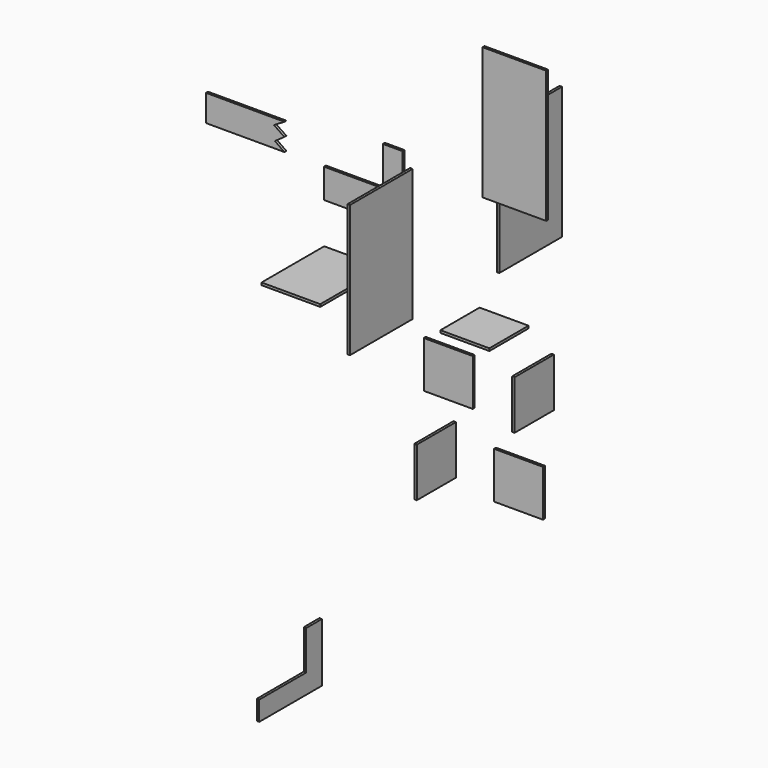
from build123d import *

# Parameters (mm, degrees)
F0_W      = 63.5
F0_H      = 63.5
F1_DEPTH  = 3.175
F2_W      = 63.5
F2_H      = 60.325
F3_DEPTH  = 3.175
F4_DEPTH  = 3.175
F5_W      = 63.5
F5_H      = 63.5
F6_DEPTH  = 3.175
F0_W_2    = 76.2
F0_H_2    = 101.6
F7_DEPTH  = 3.175
F5_W_2    = 101.6
F5_H_2    = 171.45
F8_DEPTH  = 3.175
F9_DEPTH  = 3.175
F2_W_2    = 82.55
F2_H_2    = 171.45
F10_DEPTH = 3.175
F5_W_3    = 76.2
F5_H_3    = 25.4
F5_W_4    = 25.4
F5_H_4    = 50.8
F11_DEPTH = 3.175
F2_W_3    = 25.4
F2_H_3    = 50.8
F2_H_4    = 38.1
F2_W_4    = 76.2
F12_DEPTH = 3.175
F13_DEPTH = 3.175


with BuildPart() as f1:
    # F0 (on Top) → F1 (new body)
    with BuildSketch(Plane.XY):
        Rectangle(F0_W, F0_H)
    extrude(amount=F1_DEPTH)


with BuildPart() as f3:
    # F2 (on Front) → F3 (new body)
    with BuildSketch(Plane.XZ):
        with Locations((-44.416024, -61.963391)):
            Rectangle(F2_W, F2_H)
    extrude(amount=F3_DEPTH)


with BuildPart() as f4:
    # F2 (on Front) → F4 (new body)
    with BuildSketch(Plane.XZ):
        with Locations((46.665526, -158.81647)):
            Rectangle(F2_W, F2_H)
    extrude(amount=F4_DEPTH)


with BuildPart() as f6:
    # F5 (on Right) → F6 (new body)
    with BuildSketch(Plane.YZ):
        with Locations((-81.92368, -114.581206)):
            Rectangle(F5_W, F5_H)
        with Locations((76.681532, -102.047331)):
            Rectangle(F5_W, F5_H)
    extrude(amount=F6_DEPTH)


with BuildPart() as f7:
    # F0 (on Top) → F7 (new body)
    with BuildSketch(Plane.XY):
        with Locations((-200.500001, -12.367736)):
            Rectangle(F0_W_2, F0_H_2)
    extrude(amount=F7_DEPTH)


with BuildPart() as f8:
    # F5 (on Right) → F8 (new body)
    with BuildSketch(Plane.YZ):
        with Locations((70.818697, 144.401898)):
            Rectangle(F5_W_2, F5_H_2)
    extrude(amount=F8_DEPTH)


with BuildPart() as f9:
    # F5 (on Right) → F9 (new body)
    with BuildSketch(Plane.YZ):
        with Locations((-171.301055, 149.031481)):
            Rectangle(F5_W_2, F5_H_2)
    extrude(amount=F9_DEPTH)


with BuildPart() as f10:
    # F2 (on Front) → F10 (new body)
    with BuildSketch(Plane.XZ):
        with Locations((41.275, 239.22356)):
            Rectangle(F2_W_2, F2_H_2)
    extrude(amount=F10_DEPTH)


with BuildPart() as f11:
    # F5 (on Right) → F11 (new body)
    with BuildSketch(Plane.YZ):
        with Locations((-331.017886, -282.823673)):
            Rectangle(F5_W_3, F5_H_3)
        with Locations((-280.217886, -282.823673)):
            Rectangle(F5_W_4, F5_H_3)
        with Locations((-280.217886, -244.723673)):
            Rectangle(F5_W_4, F5_H_4)
    extrude(amount=F11_DEPTH)


with BuildPart() as f12:
    # F2 (on Front) → F12 (new body)
    with BuildSketch(Plane.XZ):
        with Locations((-116.676688, 147.127164)):
            Rectangle(F2_W_3, F2_H_3)
        with Locations((-116.676688, 102.677164)):
            Rectangle(F2_W_3, F2_H_4)
        with Locations((-167.476688, 102.677164)):
            Rectangle(F2_W_4, F2_H_4)
    extrude(amount=F12_DEPTH)


with BuildPart() as f13:
    # F2 (on Front) → F13 (new body)
    with BuildSketch(Plane.XZ):
        Polygon((-256.945721, 156.265825), (-358.545721, 156.265825), (-358.545721, 121.708661), (-256.945721, 121.708661), (-269.209168, 130.333126), (-256.945721, 138.987243), (-270.412317, 148.136467), align=None)
    extrude(amount=F13_DEPTH)


solid = Compound([f1.part, f3.part, f4.part, f6.part, f7.part, f8.part, f9.part, f10.part, f11.part, f12.part, f13.part])
